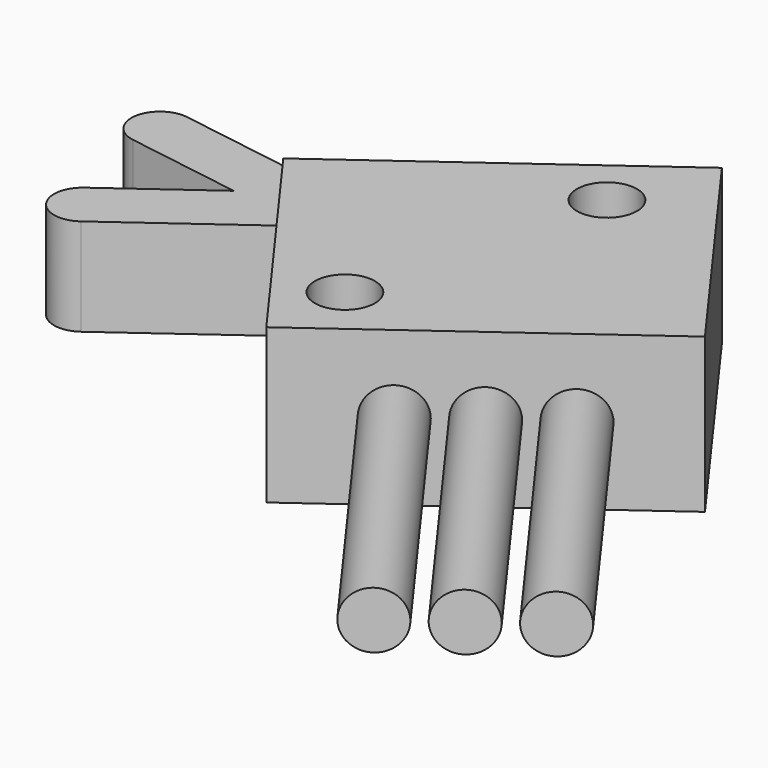
from build123d import *

# Parameters (mm, degrees)
SKETCH004_W             = 12
SKETCH004_H             = 10
SKETCH004_R             = 1.05
PAD004_DEPTH            = 5.4
PAD005_START            = 1
PAD005_DEPTH            = 3.4
SKETCH006_R             = 1
PAD006_DEPTH            = 12
PAD007_START            = 1
PAD007_DEPTH            = 3.4
BODY003_PLACEMENT_ANGLE = 324


with BuildPart() as part:
    # Sketch004 → Pad004 (new body)
    with BuildSketch(Plane.XY):
        with Locations((6, 5)):
            Rectangle(SKETCH004_W, SKETCH004_H)
        with Locations((2.05, 2.171592)):
            Circle(SKETCH004_R, mode=Mode.SUBTRACT)
        with Locations((8.95, 7.95)):
            Circle(SKETCH004_R, mode=Mode.SUBTRACT)
    extrude(amount=PAD004_DEPTH)

    # Sketch005 → Pad005 (join)
    with BuildSketch(Plane.XY.offset(PAD005_START)):
        with BuildLine():
            Line((-4.242641, 12.828427), (0.353553, 8.232233))
            Line((0.353553, 8.232233), (1.767767, 9.646447))
            Line((1.767767, 9.646447), (-2.828427, 14.242641))
            ThreePointArc((-2.828427, 14.242641), (-4.242641, 14.242641), (-4.242641, 12.828427))
        make_face()
    extrude(amount=PAD005_DEPTH)

    # Sketch006 (on Face1 of Pad005) → Pad006 (join)
    with BuildSketch(Plane.XZ):
        with Locations((3.5, 2.7)):
            Circle(SKETCH006_R)
        with Locations((6, 2.7)):
            Circle(SKETCH006_R)
        with Locations((8.5, 2.7)):
            Circle(SKETCH006_R)
    extrude(amount=PAD006_DEPTH)

    # Sketch007 → Pad007 (join)
    with BuildSketch(Plane.XY.offset(PAD007_START)):
        with BuildLine():
            Line((1.06066, 7.93934), (-5.43934, 7.93934))
            ThreePointArc((-5.43934, 9.93934), (-6.43934, 8.93934), (-5.43934, 7.93934))
            Line((-5.43934, 9.93934), (1.06066, 9.93934))
            Line((1.06066, 7.93934), (1.06066, 9.93934))
        make_face()
    extrude(amount=PAD007_DEPTH)


with BuildPart() as part_1:
    # Body003 placement: moved
    add(part.part.moved(Location((10.236799, 8.319416, 0))).rotate(Axis((10.236799, 8.319416, 0), (0, 0, -1)), BODY003_PLACEMENT_ANGLE))


solid = part_1.part
